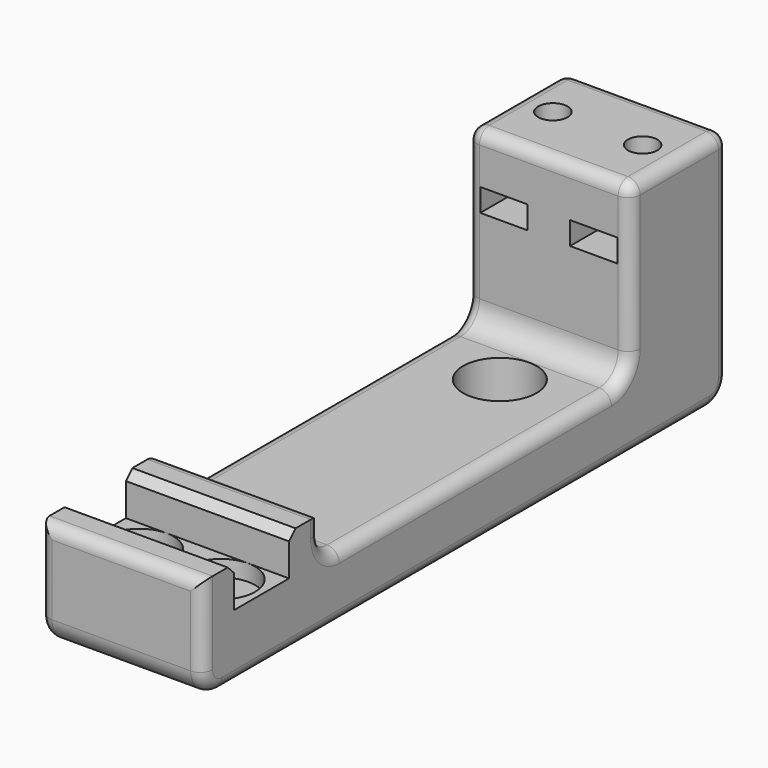
from build123d import *

# Parameters (mm, degrees)
PAD003_DEPTH    = 2.8
SKETCH_W        = 20
SKETCH_H        = 68
PAD_DEPTH       = 8
SKETCH276_W     = 20
SKETCH276_H     = 5
PAD001_DEPTH    = 5
SKETCH342_W     = 20
SKETCH342_H     = 29
PAD002_DEPTH    = 7.5
SKETCH343_R     = 1.8
POCKET_DEPTH    = 29.001
SKETCH347_W     = 20
SKETCH347_H     = 13
PAD004_DEPTH    = 5
SKETCH348_W     = 20
SKETCH348_H     = 8.4
POCKET001_DEPTH = 5
SKETCH345_R     = 4.2
POCKET002_DEPTH = 7
SKETCH346_R     = 4.5
POCKET003_DEPTH = 8.001
CHAMFER_SIZE    = 1
FILLET_R        = 2.9
FILLET001_R     = 1.5


with BuildPart() as pad003:
    # Sketch344 → Pad003 (new body)
    with BuildSketch(Plane.XY.offset(23)):
        Polygon((-8.4, 25), (-2.6, 25), (-2.6, 35), (-5.5, 38), (-8.4, 35), align=None)
        Polygon((2.6, 25), (8.4, 25), (8.4, 35), (5.5, 38), (2.6, 35), align=None)
    extrude(amount=-PAD003_DEPTH)


with BuildPart() as fillet001:
    # Sketch → Pad (new body)
    with BuildSketch(Plane.XY):
        Rectangle(SKETCH_W, SKETCH_H)
    extrude(amount=PAD_DEPTH)

    # Sketch276 → Pad001 (new body)
    with BuildSketch(Plane.XY.offset(8)):
        with Locations((0, -23.5)):
            Rectangle(SKETCH276_W, SKETCH276_H)
    extrude(amount=PAD001_DEPTH)

    # Sketch342 → Pad002 (new body, symmetric)
    with BuildSketch(Plane(origin=(0, 34, 0), x_dir=(-1, 0, 0), z_dir=(0, 1, 0))):
        with Locations((0, 14.5)):
            Rectangle(SKETCH342_W, SKETCH342_H)
    extrude(amount=PAD002_DEPTH, both=True)

    # Sketch343 → Pocket (cut, through all)
    with BuildSketch(Plane.XY.offset(29)):
        with Locations((-5.5, 34)):
            Circle(SKETCH343_R)
        with Locations((5.5, 34)):
            Circle(SKETCH343_R)
    extrude(amount=-POCKET_DEPTH, mode=Mode.SUBTRACT)

    # Cut: cut Pad003
    add(pad003.part, mode=Mode.SUBTRACT)

    # Sketch347 → Pad004 (new body)
    with BuildSketch(Plane.XZ.offset(34)):
        with Locations((0, 6.5)):
            Rectangle(SKETCH347_W, SKETCH347_H)
    extrude(amount=PAD004_DEPTH)

    # Sketch348 → Pocket001 (cut)
    with BuildSketch(Plane.XY.offset(13)):
        with Locations((0, -30)):
            Rectangle(SKETCH348_W, SKETCH348_H)
    extrude(amount=-POCKET001_DEPTH, mode=Mode.SUBTRACT)

    # Sketch345 → Pocket002 (cut)
    with BuildSketch(Plane.XY.offset(13)):
        with Locations((-5, -30)):
            Circle(SKETCH345_R)
        with Locations((5, -30)):
            Circle(SKETCH345_R)
    extrude(amount=-POCKET002_DEPTH, mode=Mode.SUBTRACT)

    # Sketch346 → Pocket003 (cut, through all)
    with BuildSketch(Plane.XY.offset(8)):
        with Locations((0, 19)):
            Circle(SKETCH346_R)
    extrude(amount=-POCKET003_DEPTH, mode=Mode.SUBTRACT)

    # Chamfer
    chamfer_edges = [fillet001.edges().sort_by_distance(p)[0] for p in [
        (0, -25.8, 13),
        (0, -34.2, 13),
    ]]
    chamfer(chamfer_edges, length=CHAMFER_SIZE)

    # Fillet
    fillet_edges = [fillet001.edges().sort_by_distance(p)[0] for p in [
        (0, 26.5, 8),
        (0, 41.5, 0),
        (0, -39, 0),
        (0, -21, 8),
    ]]
    fillet(fillet_edges, radius=FILLET_R)

    # Fillet001
    fillet001_edges = [fillet001.edges().sort_by_distance(p)[0] for p in [
        (0, -39, 13),
        (-10, -39, 7.95),
        (10, -39, 7.95),
        (0, -21, 13),
        (-10, 1.25, 0),
        (-10, 41.5, 15.95),
        (-10, 26.5, 19.95),
        (-10, 2.75, 8),
        (10, 2.75, 8),
        (0, 26.5, 29),
        (-10, 34, 29),
        (0, 41.5, 29),
        (10, 41.5, 15.95),
        (10, 34, 29),
        (10, 1.25, 0),
    ]]
    fillet(fillet001_edges, radius=FILLET001_R)


solid = fillet001.part
